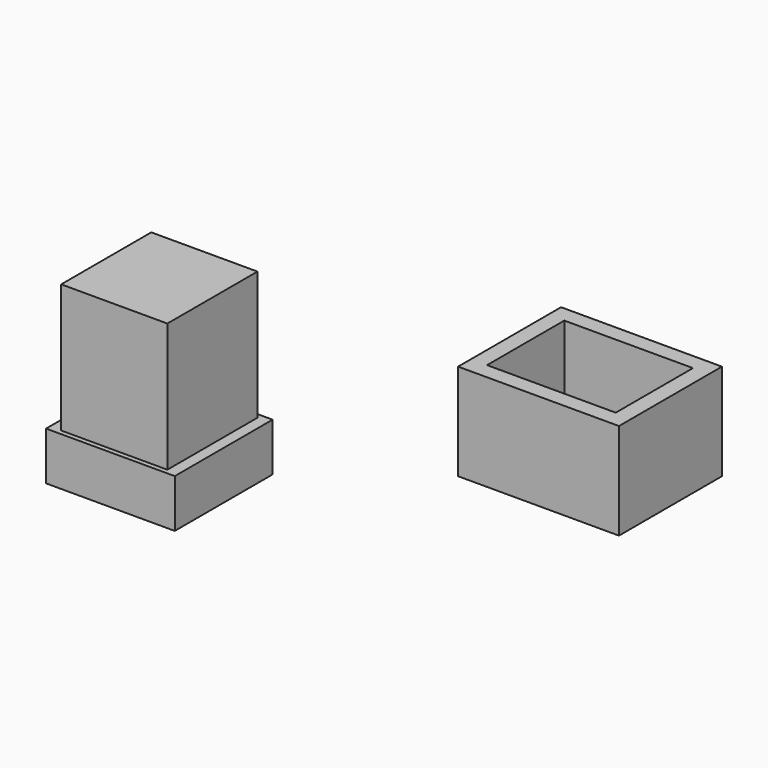
from build123d import *

# Parameters (mm, degrees)
F0_W     = 500
F0_H     = 400
F1_DEPTH = 300
F2_T     = -50
F3_W     = 400
F3_H     = 380
F4_DEPTH = 150
F5_W     = 330
F5_H     = 350
F6_DEPTH = 400


with BuildPart() as f1:
    # F0 (on Top) → F1 (new body)
    with BuildSketch(Plane.XY):
        with Locations((-57.102057, -9.354085)):
            Rectangle(F0_W, F0_H)
    extrude(amount=F1_DEPTH)

    # F2
    f2_openings = [f1.faces().sort_by_distance(p)[0] for p in [
        (-57.102057, -9.354085, 0),
        (-57.102057, -9.354085, 300),
    ]]
    offset(amount=F2_T, openings=f2_openings)


with BuildPart() as f4:
    # F3 (on Top) → F4 (new body)
    with BuildSketch(Plane.XY):
        with Locations((-864.596963, -673.416553)):
            Rectangle(F3_W, F3_H)
    extrude(amount=F4_DEPTH)

    # F5 (on face) → F6 (join)
    with BuildSketch(Plane.XY.offset(150)):
        with Locations((-864.596963, -673.416553)):
            Rectangle(F5_W, F5_H)
    extrude(amount=F6_DEPTH)


solid = Compound([f1.part, f4.part])
